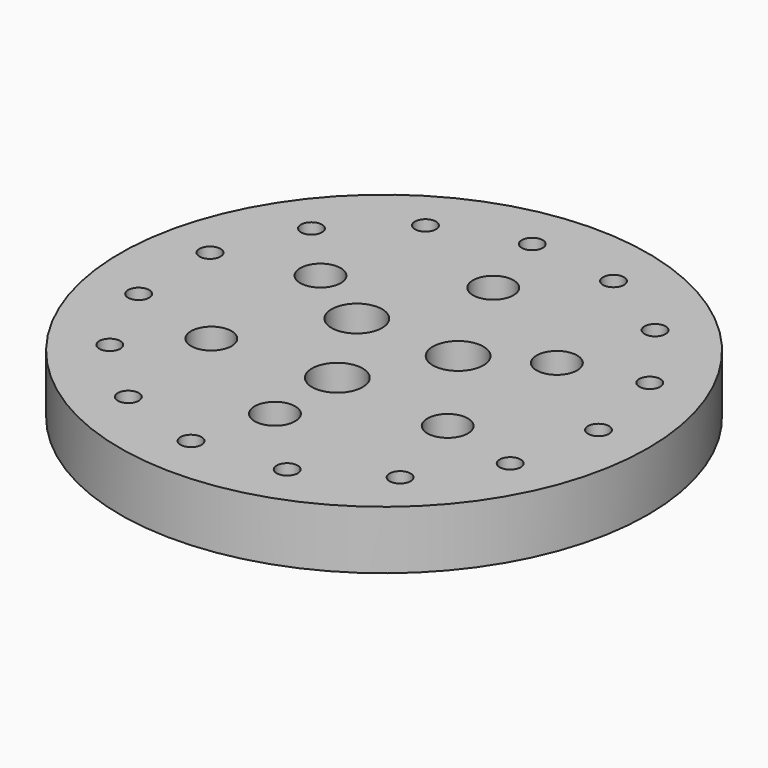
from build123d import *

# Parameters (mm, degrees)
F0_R     = 85.979
F0_R_2   = 3.429
F0_R_3   = 6.604
F0_R_4   = 8.255
F1_DEPTH = 19.05
F2_DEPTH = 16.51
F3_DEPTH = 12.7


with BuildPart() as f1:
    # F0 (on Top) → F1 (new body)
    with BuildSketch(Plane.XY):
        Circle(F0_R)
        with Locations((-7.301313, -69.467354)):
            Circle(F0_R_2, mode=Mode.SUBTRACT)
        with Locations((-34.925, -60.491874)):
            Circle(F0_R_2, mode=Mode.SUBTRACT)
        with Locations((-56.509837, -41.0568)):
            Circle(F0_R_2, mode=Mode.SUBTRACT)
        with Locations((-68.32361, -14.522632)):
            Circle(F0_R_2, mode=Mode.SUBTRACT)
        with Locations((-38.494829, -22.225)):
            Circle(F0_R_3, mode=Mode.SUBTRACT)
        with Locations((21.584837, -66.431298)):
            Circle(F0_R_2, mode=Mode.SUBTRACT)
        with Locations((0, -44.45)):
            Circle(F0_R_3, mode=Mode.SUBTRACT)
        with Locations((46.738773, -51.908666)):
            Circle(F0_R_2, mode=Mode.SUBTRACT)
        with Locations((38.494829, -22.225)):
            Circle(F0_R_3, mode=Mode.SUBTRACT)
        with Locations((0, -19.05)):
            Circle(F0_R_4, mode=Mode.SUBTRACT)
        with Locations((63.81115, -28.410555)):
            Circle(F0_R_2, mode=Mode.SUBTRACT)
        with Locations((-68.32361, 14.522632)):
            Circle(F0_R_2, mode=Mode.SUBTRACT)
        with Locations((-56.509837, 41.0568)):
            Circle(F0_R_2, mode=Mode.SUBTRACT)
        with Locations((-16.497784, 9.525)):
            Circle(F0_R_4, mode=Mode.SUBTRACT)
        with Locations((-38.494829, 22.225)):
            Circle(F0_R_3, mode=Mode.SUBTRACT)
        with Locations((-34.925, 60.491874)):
            Circle(F0_R_2, mode=Mode.SUBTRACT)
        with Locations((-7.301313, 69.467354)):
            Circle(F0_R_2, mode=Mode.SUBTRACT)
        with Locations((16.497784, 9.525)):
            Circle(F0_R_4, mode=Mode.SUBTRACT)
        with Locations((38.494829, 22.225)):
            Circle(F0_R_3, mode=Mode.SUBTRACT)
        with Locations((69.85, 0)):
            Circle(F0_R_2, mode=Mode.SUBTRACT)
        with Locations((63.81115, 28.410555)):
            Circle(F0_R_2, mode=Mode.SUBTRACT)
        with Locations((0, 44.45)):
            Circle(F0_R_3, mode=Mode.SUBTRACT)
        with Locations((21.584837, 66.431298)):
            Circle(F0_R_2, mode=Mode.SUBTRACT)
        with Locations((46.738773, 51.908666)):
            Circle(F0_R_2, mode=Mode.SUBTRACT)
        with Locations((-68.32361, 14.522632)):
            Circle(F0_R_2)
        with Locations((-68.32361, -14.522632)):
            Circle(F0_R_2)
        with Locations((-56.509837, -41.0568)):
            Circle(F0_R_2)
        with Locations((-34.925, -60.491874)):
            Circle(F0_R_2)
        with Locations((-7.301313, -69.467354)):
            Circle(F0_R_2)
        with Locations((21.584837, -66.431298)):
            Circle(F0_R_2)
        with Locations((46.738773, -51.908666)):
            Circle(F0_R_2)
        with Locations((63.81115, -28.410555)):
            Circle(F0_R_2)
        with Locations((69.85, 0)):
            Circle(F0_R_2)
        with Locations((63.81115, 28.410555)):
            Circle(F0_R_2)
        with Locations((46.738773, 51.908666)):
            Circle(F0_R_2)
        with Locations((21.584837, 66.431298)):
            Circle(F0_R_2)
        with Locations((-7.301313, 69.467354)):
            Circle(F0_R_2)
        with Locations((-34.925, 60.491874)):
            Circle(F0_R_2)
        with Locations((-56.509837, 41.0568)):
            Circle(F0_R_2)
        with Locations((-38.494829, 22.225)):
            Circle(F0_R_3)
        with Locations((-38.494829, -22.225)):
            Circle(F0_R_3)
        with Locations((0, -44.45)):
            Circle(F0_R_3)
        with Locations((0, -19.05)):
            Circle(F0_R_4)
        with Locations((-16.497784, 9.525)):
            Circle(F0_R_4)
        with Locations((16.497784, 9.525)):
            Circle(F0_R_4)
        with Locations((38.494829, -22.225)):
            Circle(F0_R_3)
        with Locations((38.494829, 22.225)):
            Circle(F0_R_3)
        with Locations((0, 44.45)):
            Circle(F0_R_3)
    extrude(amount=-F1_DEPTH)

    # F0 (on Top) → F2 (cut)
    with BuildSketch(Plane.XY):
        with Locations((-68.32361, 14.522632)):
            Circle(F0_R_2)
        with Locations((-68.32361, -14.522632)):
            Circle(F0_R_2)
        with Locations((-56.509837, -41.0568)):
            Circle(F0_R_2)
        with Locations((-34.925, -60.491874)):
            Circle(F0_R_2)
        with Locations((-7.301313, -69.467354)):
            Circle(F0_R_2)
        with Locations((21.584837, -66.431298)):
            Circle(F0_R_2)
        with Locations((46.738773, -51.908666)):
            Circle(F0_R_2)
        with Locations((63.81115, -28.410555)):
            Circle(F0_R_2)
        with Locations((69.85, 0)):
            Circle(F0_R_2)
        with Locations((63.81115, 28.410555)):
            Circle(F0_R_2)
        with Locations((46.738773, 51.908666)):
            Circle(F0_R_2)
        with Locations((21.584837, 66.431298)):
            Circle(F0_R_2)
        with Locations((-7.301313, 69.467354)):
            Circle(F0_R_2)
        with Locations((-34.925, 60.491874)):
            Circle(F0_R_2)
        with Locations((-56.509837, 41.0568)):
            Circle(F0_R_2)
        with Locations((-38.494829, -22.225)):
            Circle(F0_R_3)
        with Locations((0, -44.45)):
            Circle(F0_R_3)
        with Locations((38.494829, -22.225)):
            Circle(F0_R_3)
        with Locations((38.494829, 22.225)):
            Circle(F0_R_3)
        with Locations((0, 44.45)):
            Circle(F0_R_3)
        with Locations((-38.494829, 22.225)):
            Circle(F0_R_3)
    extrude(amount=-F2_DEPTH, mode=Mode.SUBTRACT)

    # F0 (on Top) → F3 (cut)
    with BuildSketch(Plane.XY):
        with Locations((-16.497784, 9.525)):
            Circle(F0_R_4)
        with Locations((0, -19.05)):
            Circle(F0_R_4)
        with Locations((16.497784, 9.525)):
            Circle(F0_R_4)
    extrude(amount=-F3_DEPTH, mode=Mode.SUBTRACT)


solid = f1.part
